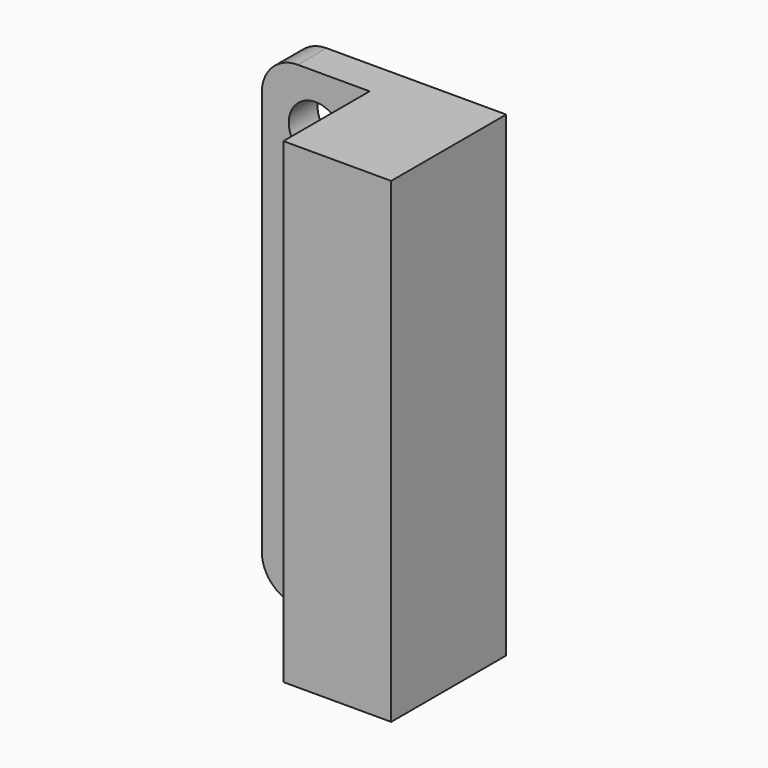
from build123d import *

# Parameters (mm, degrees)
F0_W     = 48
F0_H     = 106
F1_DEPTH = 8
F2_W     = 24
F2_H     = 106
F3_DEPTH = 24
F4_R     = 6
F5_DEPTH = 40
F6_R     = 8


with BuildPart() as f1:
    # F0 (on Front) → F1 (new body)
    with BuildSketch(Plane.XZ):
        with Locations((-23.98444, 1.00732)):
            Rectangle(F0_W, F0_H)
    extrude(amount=F1_DEPTH)

    # F2 (on face) → F3 (join)
    with BuildSketch(Plane.XZ.offset(8)):
        with Locations((-11.98444, 1.00732)):
            Rectangle(F2_W, F2_H)
    extrude(amount=F3_DEPTH)

    # F4 (on face) → F5 (cut)
    with BuildSketch(Plane.XZ.offset(8)):
        with Locations((-35.98444, 42.00732)):
            Circle(F4_R)
        with Locations((-35.98444, -39.99268)):
            Circle(F4_R)
    extrude(amount=-F5_DEPTH, mode=Mode.SUBTRACT)

    # F6
    f6_edges = [f1.edges().sort_by_distance(p)[0] for p in [
        (-47.98444, -4, 54.00732),
        (-47.98444, -4, -51.99268),
    ]]
    fillet(f6_edges, radius=F6_R)


solid = f1.part
